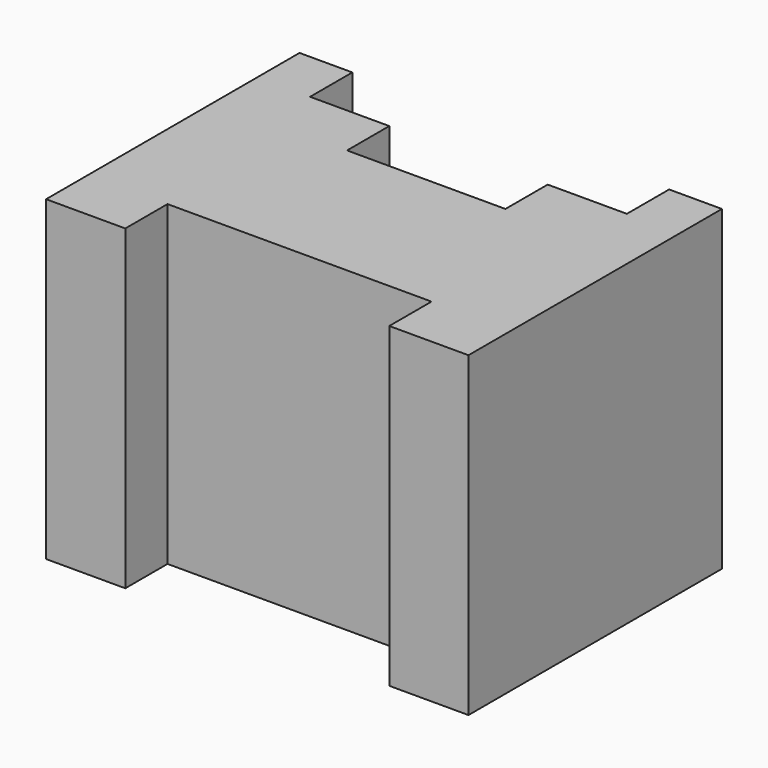
from build123d import *

# Parameters (mm, degrees)
F1_DEPTH = 60


with BuildPart() as f1:
    # F0 (on Top) → F1 (new body)
    with BuildSketch(Plane.XY):
        Polygon((0, 60), (0, 0), (15, 0), (15, 10), (65, 10), (65, 0), (80, 0), (80, 60), (70, 60), (70, 50), (55, 50), (55, 40), (25, 40), (25, 50), (10, 50), (10, 60), align=None)
    extrude(amount=F1_DEPTH)


solid = f1.part
